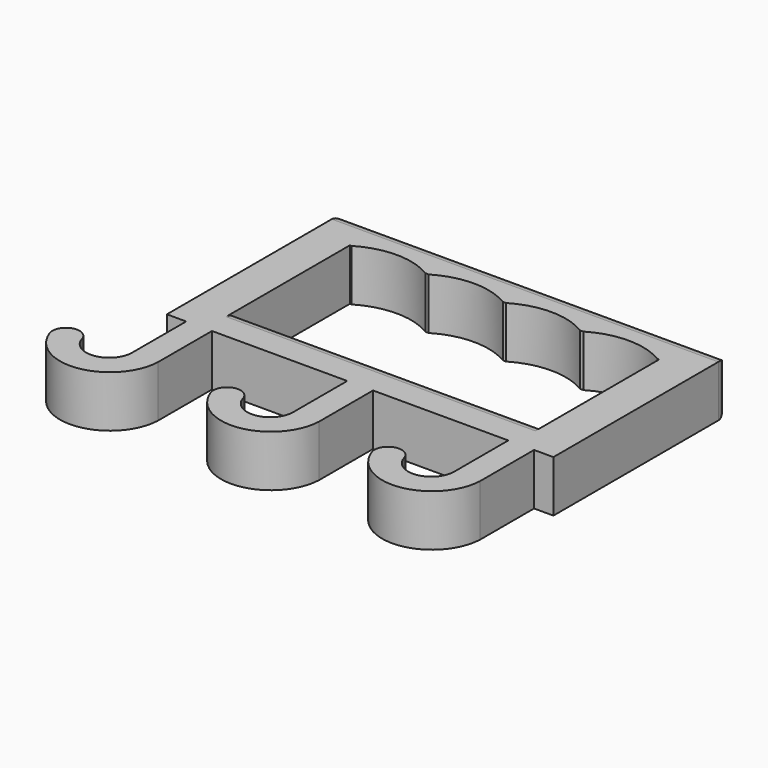
from build123d import *

# Parameters (mm, degrees)
F0_W     = 120
F0_H     = 55
F1_DEPTH = 20
F2_R     = 5
F4_DEPTH = 20.001


with BuildPart() as f1:
    # F0 (on Top) → F1 (new body)
    with BuildSketch(Plane.XY):
        Polygon((75, -42.5), (75, 42.5), (-75, 42.5), (-75, -42.5), (-67.5, -42.5), (-57.5, -42.5), (-5, -42.5), (5, -42.5), (57.5, -42.5), (67.5, -42.5), align=None)
        Rectangle(F0_W, F0_H, mode=Mode.SUBTRACT)
        with BuildLine():
            Line((67.5, -68.693042), (67.5, -42.5))
            Line((67.5, -42.5), (57.5, -42.5))
            Line((57.5, -42.5), (57.5, -68.693042))
            ThreePointArc((57.5, -68.693042), (49.808453, -77.539779), (39.978338, -71.152801))
            ThreePointArc((39.978338, -71.152801), (33.309749, -67.591487), (29.962853, -74.370228))
            ThreePointArc((29.962853, -74.370228), (51.069883, -86.993343), (67.5, -68.693042))
        make_face()
        with BuildLine():
            Line((-57.5, -42.5), (-67.5, -42.5))
            Line((-67.5, -42.5), (-67.5, -68.693042))
            ThreePointArc((-67.5, -68.693042), (-75.191547, -77.539779), (-85.021662, -71.152801))
            ThreePointArc((-85.021662, -71.152801), (-91.690251, -67.591487), (-95.037147, -74.370228))
            ThreePointArc((-95.037147, -74.370228), (-73.930117, -86.993343), (-57.5, -68.693042))
            Line((-57.5, -68.693042), (-57.5, -42.5))
        make_face()
        with BuildLine():
            Line((5, -68.693042), (5, -42.5))
            Line((5, -42.5), (-5, -42.5))
            Line((-5, -42.5), (-5, -68.693042))
            ThreePointArc((-5, -68.693042), (-12.691547, -77.539779), (-22.521662, -71.152801))
            ThreePointArc((-22.521662, -71.152801), (-29.190251, -67.591487), (-32.537147, -74.370228))
            ThreePointArc((-32.537147, -74.370228), (-11.430117, -86.993343), (5, -68.693042))
        make_face()
    extrude(amount=F1_DEPTH)

    # F2
    f2_edges = [f1.edges().sort_by_distance(p)[0] for p in [
        (0, 42.5, 20),
        (0, 42.5, 0),
        (-75, 42.5, 10),
        (75, 42.5, 10),
        (0, -27.5, 0),
        (0, -27.5, 20),
    ]]
    fillet(f2_edges, radius=F2_R)

    # F3 (on face) → F4 (cut, through all)
    with BuildSketch(Plane.XY.offset(20)):
        with BuildLine():
            Line((-59.415153, 27.492821), (-30, 27.131766))
            ThreePointArc((-30, 27.131766), (-44.656341, 31.486476), (-59.415153, 27.492821))
        make_face()
        with BuildLine():
            ThreePointArc((59.415153, 27.492821), (44.656341, 31.486476), (30, 27.131766))
            Line((30, 27.131766), (59.415153, 27.492821))
        make_face()
        with BuildLine():
            ThreePointArc((30, 27.131766), (15, 31.488585), (0, 27.131766))
            Line((0, 27.131766), (30, 27.131766))
        make_face()
        with BuildLine():
            ThreePointArc((0, 27.131766), (-15, 31.488585), (-30, 27.131766))
            Line((-30, 27.131766), (0, 27.131766))
        make_face()
    extrude(amount=-F4_DEPTH, mode=Mode.SUBTRACT)


solid = f1.part
